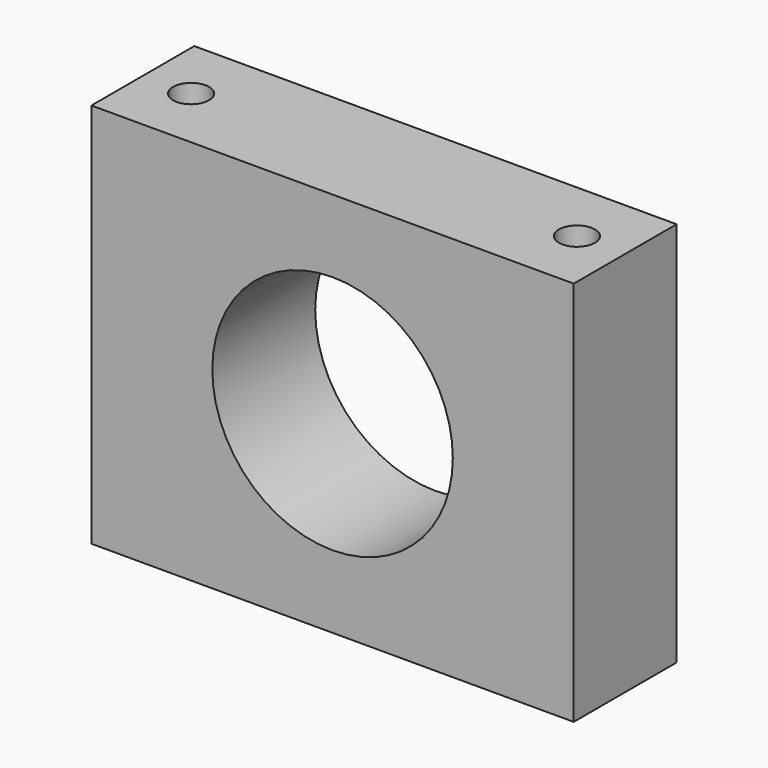
from build123d import *

# Parameters (mm, degrees)
F0_W     = 95.25
F0_H     = 76.2
F0_R     = 23.749
F1_DEPTH = 12.7
F2_R     = 3.5687
F3_DEPTH = 76.2


with BuildPart() as f1:
    # F0 (on Front) → F1 (new body, symmetric)
    with BuildSketch(Plane.XZ):
        with Locations((-7.805852, 0.846555)):
            Rectangle(F0_W, F0_H)
        with Locations((-7.805852, 0.846555)):
            Circle(F0_R, mode=Mode.SUBTRACT)
    extrude(amount=F1_DEPTH, both=True)

    # F2 (on face) → F3 (cut)
    with BuildSketch(Plane.XY.offset(38.946555)):
        with Locations((-45.905852, 0)):
            Circle(F2_R)
        with Locations((30.294148, 0)):
            Circle(F2_R)
    extrude(amount=-F3_DEPTH, mode=Mode.SUBTRACT)


solid = f1.part
